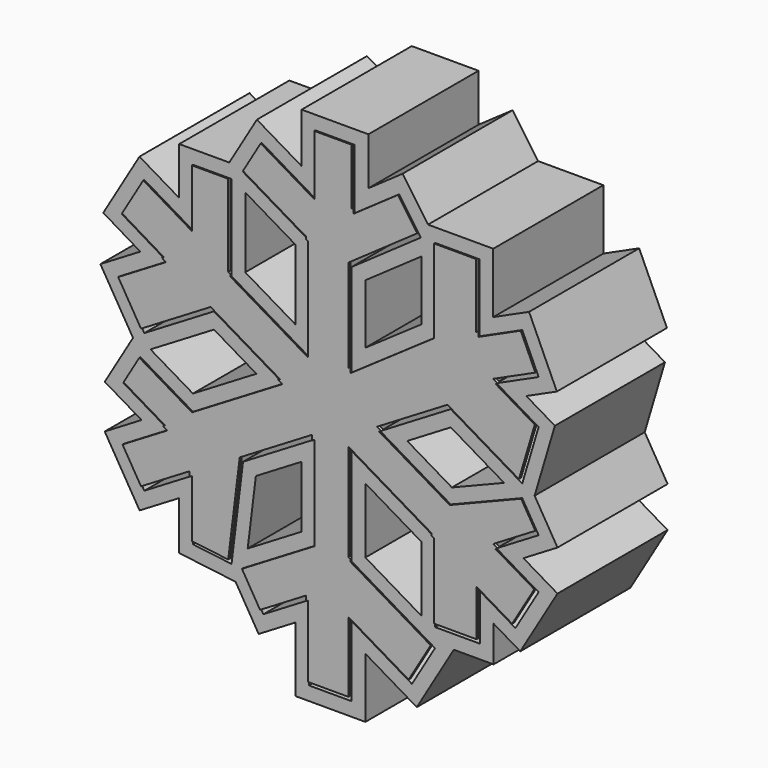
from build123d import *

# Parameters (mm, degrees)
F1_DEPTH = 0.75
F3_DEPTH = 25.4
F4_DEPTH = 1
F5_DEPTH = 25.4
F6_R     = 11.35
F6_R_2   = 5
F7_DEPTH = 6.35
F9_DEPTH = 0.25


with BuildPart() as f1:
    # F0 (on Front) → F1 (new body)
    with BuildSketch(Plane.XZ):
        Polygon((-36.6120710969, 26.6700014472), (-40.7151468098, 19.7263322771), (-32.4094031893, 14.7595657272), (-41.2323387284, 9.4684955207), (-36.6120710969, 1.7641329068), (-23.7649358182, 9.4684955207), (-20.9362641692, 7.797008349), (-10.9546635184, 1.8987919733), (-27.6267720914, -8.0993879476), (-37.3274694533, -2.3671598174), (-40.4359580868, -7.6276809972), (-32.1643423521, -12.5154521159), (-40.4359580868, -17.4758985999), (-36.6120710969, -23.8522850593), (-27.6267720914, -18.4638462961), (-27.6267720914, -29.6430480822), (-20.5153860152, -30.5148164693), (-18.3955743345, -13.2226096264), (-5.0306831837, -5.2077514119), (-5.0306831837, -22.4999582549), (-18.3955743345, -30.5148164693), (-14.6389177426, -36.7790952749), (-6.2027064263, -31.7199416459), (-6.2027064263, -45.6072762609), (1.6494908743, -45.6072762609), (1.6494908743, -32.6085650183), (12.7837632913, -39.1879053665), (17.0435514301, -31.979030454), (1.6494908743, -22.8825435042), (1.6494908743, -4.9486602755), (17.0435514301, -14.0451472253), (17.0435514301, -28.5637266934), (25.3173712967, -28.5637266934), (25.3173712967, -20.024555167), (31.8839375138, -23.9047973996), (36.1650414515, -16.6598495833), (28.3968984768, -12.0695849849), (36.1650414515, -7.4110685908), (33.1402346492, -2.3671598174), (19.9452925423, -7.6827745936), (6.9436691701, 0), (19.9452925423, 7.797008349), (33.1402346492, 0), (36.1650414515, 10.1693011289), (28.3968984768, 14.7595657272), (36.1650414515, 18.2894881504), (33.1402346492, 24.9460456876), (25.2497028559, 21.3605085524), (25.2497028559, 33.8748752624), (17.0435514301, 33.8748752624), (17.0435514301, 18.4638462961), (1.6494908743, 7.797008349), (1.6494908743, 24.9460456876), (14.4243323678, 33.8748752624), (10.4155028239, 39.6104715765), (2.2093506996, 33.8748752624), (2.2093506996, 44.9760332704), (-5.0306831837, 44.9760332704), (-5.0306831837, 33.8748752624), (-14.9366687283, 39.7284100009), (-18.3955743345, 33.8748752624), (-6.2027064263, 26.6700014472), (-6.2027064263, 21.3605085524), (-6.2027064263, 7.797008349), (-20.5153860152, 16.254497692), (-20.5153860152, 32.0355631411), (-27.6267720914, 32.0355631411), (-27.6267720914, 21.3605085524), align=None)
    extrude(amount=F1_DEPTH)

    # F2 (on face) → F3 (cut)
    with BuildSketch(Plane.XZ.offset(0.75)):
        Polygon((-36.522612849, 26.3221084956), (-40.3679283593, 19.8146490612), (-31.9150139989, 14.7598756162), (-40.8838727706, 9.3812959788), (-36.524871555, 2.1125988647), (-23.7658946177, 9.7640933631), (-10.4581053179, 1.9004026068), (-27.6258132919, -8.39498579), (-37.2380112054, -2.715052769), (-40.0880651352, -7.5382227493), (-31.6677841516, -12.5138414825), (-40.0874921289, -17.5630981419), (-36.524871555, -23.5038191015), (-27.372771812, -18.0153507723), (-27.372771812, -29.4182837017), (-20.7365930641, -30.2317975205), (-18.6325933881, -13.0685759347), (-4.7766829043, -4.7592558882), (-4.7766829043, -22.6438083905), (-18.0471083767, -30.6020160113), (-14.5517182006, -36.4306293171), (-5.9487061469, -31.2714461221), (-5.9487061469, -45.3532759814), (1.3954905949, -45.3532759814), (1.3954905949, -32.1634427206), (12.6943050434, -38.8400124149), (16.6956584785, -32.0684887019), (1.3954905949, -23.0274837651), (1.3954905949, -4.5035379778), (17.2975517095, -13.9002069644), (17.2975517095, -28.309726414), (25.0633710173, -28.309726414), (25.0633710173, -19.5794328693), (31.7944792659, -23.556904448), (35.8171484999, -16.7493078312), (27.9003402763, -12.0711956184), (35.8165754937, -7.3238690488), (33.0339559626, -2.6838110275), (19.9239647867, -7.9652031129), (6.4471109697, -0.0016106335), (19.9443337428, 8.0926061914), (32.989487608, 0.3841090432), (35.865020172, 10.0515550853), (27.8477590229, 14.7890258229), (35.8287162026, 18.4156531646), (33.0140696349, 24.6097204387), (24.9957025765, 20.9660936712), (24.9957025765, 33.620874983), (17.2975517095, 33.620874983), (17.2975517095, 18.3308289711), (1.3954905949, 7.3119877551), (1.3954905949, 25.0784074194), (14.070632217, 33.9375529076), (10.3528251787, 39.2567714257), (1.9553504202, 33.3874523413), (1.9553504202, 44.722032991), (-4.7766829043, 44.722032991), (-4.7766829043, 33.4297529646), (-14.8472104804, 39.3805170494), (-18.047681383, 33.9643335103), (-5.9487061469, 26.814941708), (-5.9487061469, 7.3518860512), (-20.7693862946, 16.1095574311), (-20.7693862946, 31.7815628617), (-27.372771812, 31.7815628617), (-27.372771812, 20.9153862547), align=None)
    extrude(amount=-F3_DEPTH, mode=Mode.SUBTRACT)

    # F2 (on face) → F4 (join)
    with BuildSketch(Plane.XZ.offset(0.75)):
        Polygon((39.6439670546, -15.7652681106), (33.3624748965, -12.0534786685), (39.6496971105, -8.2830630295), (35.4229163687, -1.2348454538), (39.165250872, 11.3467602408), (33.8882868392, 14.464965102), (39.528290158, 17.0278394268), (34.4018833727, 28.309294394), (27.7897027933, 25.3046529283), (27.7897027933, 36.4148751997), (15.7479481969, 36.4148751997), (11.0422785713, 43.1474691062), (4.7493506369, 38.7490989909), (4.7493506369, 47.5160332077), (-7.570683121, 47.5160332077), (-7.570683121, 38.3260932334), (-15.831250201, 43.207335604), (-20.9318411626, 34.5755630784), (-30.1667720287, 34.5755630784), (-30.1667720287, 25.8117265234), (-37.5066525696, 30.1489270503), (-44.1873274098, 18.8431654293), (-37.3532895325, 14.7564668409), (-44.7169943874, 10.3404899594), (-38.6987687341, 0.3050122722), (-43.9148836898, -8.5222624699), (-37.1299187718, -12.5315584324), (-43.9206137458, -16.6039041612), (-37.4840655356, -27.3369407183), (-30.1667720287, -22.9487964896), (-30.1667720287, -31.8906893593), (-19.7677055382, -33.1654868918), (-15.5109121813, -40.2637509339), (-8.7427063636, -36.2048918394), (-8.7427063636, -48.1472761982), (4.1894908116, -48.1472761982), (4.1894908116, -37.0597829893), (13.678344764, -42.6668309695), (20.5110856991, -31.1037266307), (27.857371234, -31.1037266307), (27.857371234, -24.475773138), (32.7785189865, -27.3837230027), align=None)
        Polygon((-7.570683121, -9.6927016054), (-7.570683121, -21.0614585162), (-17.5296417693, -27.0337960855), (-16.0253864652, -14.7629448109), align=None, mode=Mode.SUBTRACT)
        Polygon((4.1894908116, -9.3998782465), (14.5035514928, -15.4945482035), (14.5035514928, -27.527812483), (4.1894908116, -21.433142526), align=None, mode=Mode.SUBTRACT)
        Polygon((-15.9202399381, 1.8826856569), (-27.636360076, -5.1434128478), (-35.4714679715, -0.5135780837), (-23.7553478336, 6.5125204209), align=None, mode=Mode.SUBTRACT)
        Polygon((-17.9753860779, 30.6762728192), (-8.7427063636, 25.220600469), (-8.7427063636, 12.24822632), (-17.9753860779, 17.7038986702), align=None, mode=Mode.SUBTRACT)
        Polygon((-31.9150139989, 14.7598756162), (-40.3679283593, 19.8146490612), (-36.522612849, 26.3221084956), (-27.372771812, 20.9153862547), (-27.372771812, 31.7815628617), (-20.7693862946, 31.7815628617), (-20.7693862946, 16.1095574311), (-5.9487061469, 7.3518860512), (-5.9487061469, 26.814941708), (-18.047681383, 33.9643335103), (-14.8472104804, 39.3805170494), (-4.7766829043, 33.4297529646), (-4.7766829043, 44.722032991), (1.9553504202, 44.722032991), (1.9553504202, 33.3874523413), (10.3528251787, 39.2567714257), (14.070632217, 33.9375529076), (1.3954905949, 25.0784074194), (1.3954905949, 7.3119877551), (17.2975517095, 18.3308289711), (17.2975517095, 33.620874983), (24.9957025765, 33.620874983), (24.9957025765, 20.9660936712), (33.0140696349, 24.6097204387), (35.8287162026, 18.4156531646), (27.8477590229, 14.7890258229), (35.865020172, 10.0515550853), (32.989487608, 0.3841090432), (19.9443337428, 8.0926061914), (6.4471109697, -0.0016106335), (19.9239647867, -7.9652031129), (33.0339559626, -2.6838110275), (35.8165754937, -7.3238690488), (27.9003402763, -12.0711956184), (35.8171484999, -16.7493078312), (31.7944792659, -23.556904448), (25.0633710173, -19.5794328693), (25.0633710173, -28.309726414), (17.2975517095, -28.309726414), (17.2975517095, -13.9002069644), (1.3954905949, -4.5035379778), (1.3954905949, -23.0274837651), (16.6956584785, -32.0684887019), (12.6943050434, -38.8400124149), (1.3954905949, -32.1634427206), (1.3954905949, -45.3532759814), (-5.9487061469, -45.3532759814), (-5.9487061469, -31.2714461221), (-14.5517182006, -36.4306293171), (-18.0471083767, -30.6020160113), (-4.7766829043, -22.6438083905), (-4.7766829043, -4.7592558882), (-18.6325933881, -13.0685759347), (-20.7365930641, -30.2317975205), (-27.372771812, -29.4182837017), (-27.372771812, -18.0153507723), (-36.524871555, -23.5038191015), (-40.0874921289, -17.5630981419), (-31.6677841516, -12.5138414825), (-40.0880651352, -7.5382227493), (-37.2380112054, -2.715052769), (-27.6258132919, -8.39498579), (-10.4581053179, 1.9004026068), (-23.7658946177, 9.7640933631), (-36.524871555, 2.1125988647), (-40.8838727706, 9.3812959788), align=None, mode=Mode.SUBTRACT)
        Polygon((4.1894908116, 23.6224298585), (14.5035514928, 30.8313247863), (14.5035514928, 19.7940180494), (4.1894908116, 12.6472088327), align=None, mode=Mode.SUBTRACT)
        Polygon((11.9092455898, 0.0161063165), (19.954880527, 4.8410332492), (29.7978703336, -0.975276749), (20.1585698583, -4.8584925771), align=None, mode=Mode.SUBTRACT)
    extrude(amount=F4_DEPTH)

    # F5 (add): a face of the model
    f5_faces = [f1.faces().sort_by_distance(p)[0] for p in [
        (9.582805933, -0.75, -38.7651881721),
    ]]
    extrude(f5_faces, amount=-F5_DEPTH)

    # F6 (on face) → F7 (join)
    with BuildSketch(Plane.XZ.offset(1.75)):
        Circle(F6_R)
        Circle(F6_R_2, mode=Mode.SUBTRACT)
    extrude(amount=-F7_DEPTH)

    # F8 (on face) → F9 (join, symmetric)
    with BuildSketch(Plane.XZ.offset(26.15)):
        Polygon((-36.6120710969, 26.6700014472), (-40.5235921406, 20.0505018377), (-32.8196027468, 15.443579379), (-33.1859069323, 15.2239085956), (-32.4094031893, 14.7595657272), (-41.2323387284, 9.4684955207), (-37.0222706544, 2.4481465587), (-24.1751353757, 10.1525091725), (-21.3464637267, 8.4810220008), (-11.3648630759, 2.5828056251), (-11.7357866971, 2.3603645893), (-10.9546635184, 1.8987919733), (-27.6267720914, -8.0993879476), (-37.3274694533, -2.3671598174), (-40.2425366743, -7.3003523315), (-32.5745419096, -11.8314384641), (-32.9454655307, -12.0538795), (-32.1643423521, -12.5154521159), (-40.4359580868, -17.4758985999), (-37.0222706544, -23.1682714075), (-28.0369716489, -17.7798326442), (-28.0369716489, -18.7098409141), (-27.6267720914, -18.4638462961), (-27.6267720914, -29.0093198463), (-20.9255855727, -29.8308028175), (-18.8057738921, -12.5385959746), (-5.4408827412, -4.5237377601), (-5.4408827412, -5.4537460299), (-5.0306831837, -5.2077514119), (-5.0306831837, -22.4999582549), (-18.3955743345, -30.5148164693), (-15.0491173001, -36.0950816231), (-6.6129059838, -31.035927994), (-6.6129059838, -31.9659362638), (-6.2027064263, -31.7199416459), (-6.2027064263, -44.923262609), (1.2392913168, -44.923262609), (1.2392913168, -31.9245513665), (12.3735637338, -38.5038917146), (16.4399304602, -31.6223454679), (1.6494908743, -22.8825435042), (1.6494908743, -22.44092041), (1.2392913168, -22.1985298524), (1.2392913168, -4.2646466237), (16.6333518726, -13.3611335734), (16.6333518726, -13.8027566677), (17.0435514301, -14.0451472253), (17.0435514301, -27.8797130416), (24.9071717392, -27.8797130416), (24.9071717392, -19.3405415152), (31.4737379563, -23.2207837478), (35.5614204816, -16.3031645972), (28.3968984768, -12.0695849849), (28.7678220979, -11.8471439491), (27.9866989192, -11.3855713331), (35.754841894, -6.7270549389), (33.1402346492, -2.3671598174), (19.9452925423, -7.6827745936), (6.9436691701, 0), (7.3145927913, 0.2224410359), (6.5334696126, 0.6840136518), (19.5350929848, 8.4810220008), (32.7300350917, 0.6840136518), (35.6431199248, 10.4777091892), (28.3968984768, 14.7595657272), (28.819375364, 14.9515434808), (27.9866989192, 15.443579379), (35.754841894, 18.9735018022), (33.0578659717, 24.9086165308), (25.2497028559, 21.3605085524), (25.2497028559, 22.2309210155), (24.8395032984, 22.0445222042), (24.8395032984, 33.8748752624), (17.0435514301, 33.8748752624), (17.0435514301, 18.4638462961), (1.6494908743, 7.797008349), (1.6494908743, 8.765257092), (1.2392913168, 8.4810220008), (1.2392913168, 25.6300593394), (13.9685276489, 34.5270137075), (10.4155028239, 39.6104715765), (2.2093506996, 33.8748752624), (2.2093506996, 34.8455932105), (1.7991511421, 34.5588889142), (1.7991511421, 44.9760332704), (-5.0306831837, 44.9760332704), (-5.0306831837, 33.8748752624), (-14.9366687283, 39.7284100009), (-18.2021529221, 34.2022039281), (-6.6129059838, 27.354015099), (-6.6129059838, 26.9123920048), (-6.2027064263, 26.6700014472), (-6.2027064263, 7.797008349), (-20.5153860152, 16.254497692), (-20.5153860152, 16.6961207862), (-20.9255855727, 16.9385113438), (-20.9255855727, 32.0355631411), (-27.6267720914, 32.0355631411), (-27.6267720914, 21.3605085524), align=None)
    extrude(amount=F9_DEPTH, both=True)


solid = f1.part
